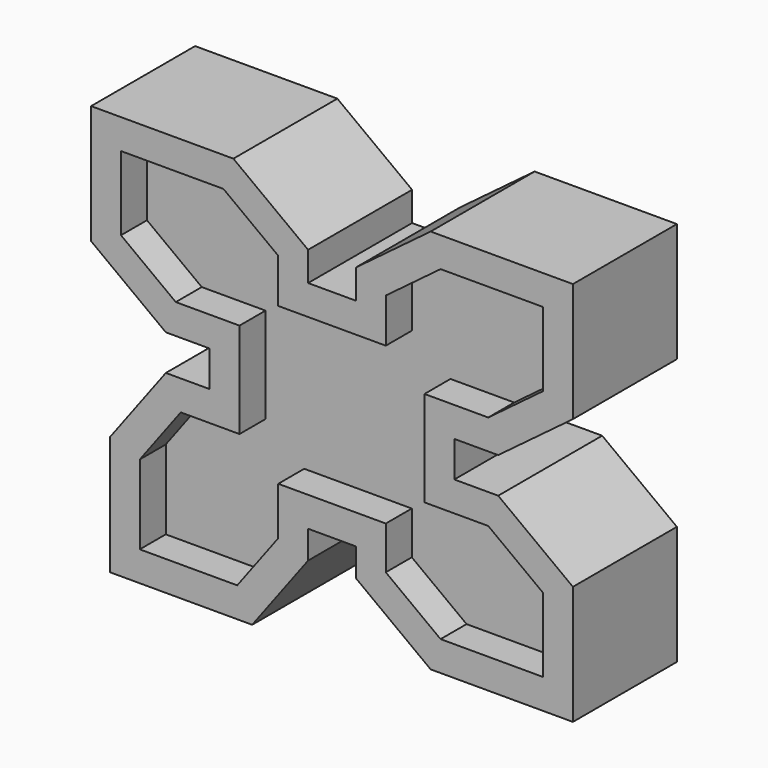
from build123d import *

# Parameters (mm, degrees)
F1_DEPTH = 12.7
F2_DEPTH = 25.4


with BuildPart() as f1:
    # F0 (on Front) → F1 (new body)
    with BuildSketch(Plane.XZ):
        Polygon((-30.429008, 25.641112), (-30.429008, -11.671882), (-53.379117, -11.671882), (-69.406818, -33.085297), (-69.406818, -64.011575), (-31.320526, -64.011575), (-15.292825, -42.598161), (-15.292825, -23.857851), (26.74457, -23.857851), (26.74457, -40.639478), (48.158187, -56.666891), (88.203151, -56.666891), (88.203151, -27.699199), (66.789736, -11.671497), (41.867928, -11.671497), (41.867928, 25.641497), (66.789822, 25.641497), (88.203439, 41.66891), (88.203439, 70.636506), (48.158778, 70.636506), (26.74588, 54.608069), (26.74588, 37.331953), (-15.291514, 37.331953), (-15.291514, 54.607823), (-36.70624, 70.636506), (-76.751118, 70.636506), (-76.751118, 41.668814), (-55.337703, 25.641112), align=None)
    extrude(amount=F1_DEPTH)

    # F0 (on Front) → F2 (join, symmetric)
    with BuildSketch(Plane.XZ):
        Polygon((15.074383, 49.003451), (-3.620017, 49.003451), (-3.620017, 60.450634), (-32.822015, 82.308003), (-88.422615, 82.308003), (-88.422615, 35.826003), (-59.221928, 13.969615), (-42.100506, 13.969615), (-42.100506, -0.000385), (-59.221928, -0.000385), (-81.078316, -29.201073), (-81.078316, -75.683073), (-25.477716, -75.683073), (-3.621328, -46.482385), (-3.621328, -35.529348), (15.073072, -35.529348), (15.073072, -46.482385), (44.274048, -68.338388), (99.874648, -68.338388), (99.874648, -21.856388), (70.673961, 0), (53.539425, 0), (53.539425, 13.97), (70.673961, 13.97), (99.874936, 35.826003), (99.874936, 82.308003), (44.274336, 82.308003), (15.074383, 60.450634), align=None)
        Polygon((-53.379117, -11.671882), (-30.429008, -11.671882), (-30.429008, 25.641112), (-55.337703, 25.641112), (-76.751118, 41.668814), (-76.751118, 70.636506), (-36.70624, 70.636506), (-15.291514, 54.607823), (-15.291514, 37.331953), (26.74588, 37.331953), (26.74588, 54.608069), (48.158778, 70.636506), (88.203439, 70.636506), (88.203439, 41.66891), (66.789822, 25.641497), (41.867928, 25.641497), (41.867928, -11.671497), (66.789736, -11.671497), (88.203151, -27.699199), (88.203151, -56.666891), (48.158187, -56.666891), (26.74457, -40.639478), (26.74457, -23.857851), (-15.292825, -23.857851), (-15.292825, -42.598161), (-31.320526, -64.011575), (-69.406818, -64.011575), (-69.406818, -33.085297), align=None, mode=Mode.SUBTRACT)
    extrude(amount=F2_DEPTH, both=True)


solid = f1.part
